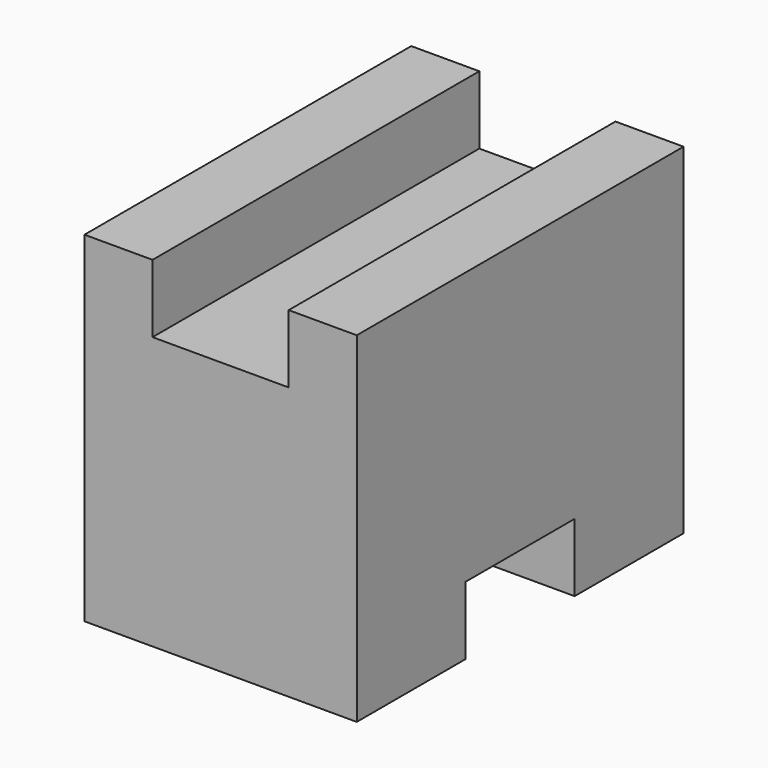
from build123d import *

# Parameters (mm, degrees)
F0_W     = 25.4
F0_H     = 31.75
F1_DEPTH = 38.1
F2_W     = 12.7
F2_H     = 6.35
F3_DEPTH = 38.1
F4_W     = 12.7
F4_H     = 6.35
F5_DEPTH = 25.4


with BuildPart() as f1:
    # F0 (on Front) → F1 (new body)
    with BuildSketch(Plane.XZ):
        with Locations((-41.503695, 38.748362)):
            Rectangle(F0_W, F0_H)
    extrude(amount=F1_DEPTH)

    # F2 (on face) → F3 (cut)
    with BuildSketch(Plane.XZ.offset(38.1)):
        with Locations((-41.503695, 51.448362)):
            Rectangle(F2_W, F2_H)
    extrude(amount=-F3_DEPTH, mode=Mode.SUBTRACT)

    # F4 (on face) → F5 (cut)
    with BuildSketch(Plane(origin=(-54.203695, 0, 0), x_dir=(0, -1, 0), z_dir=(-1, 0, 0))):
        with Locations((19.05, 26.048362)):
            Rectangle(F4_W, F4_H)
    extrude(amount=-F5_DEPTH, mode=Mode.SUBTRACT)


solid = f1.part
